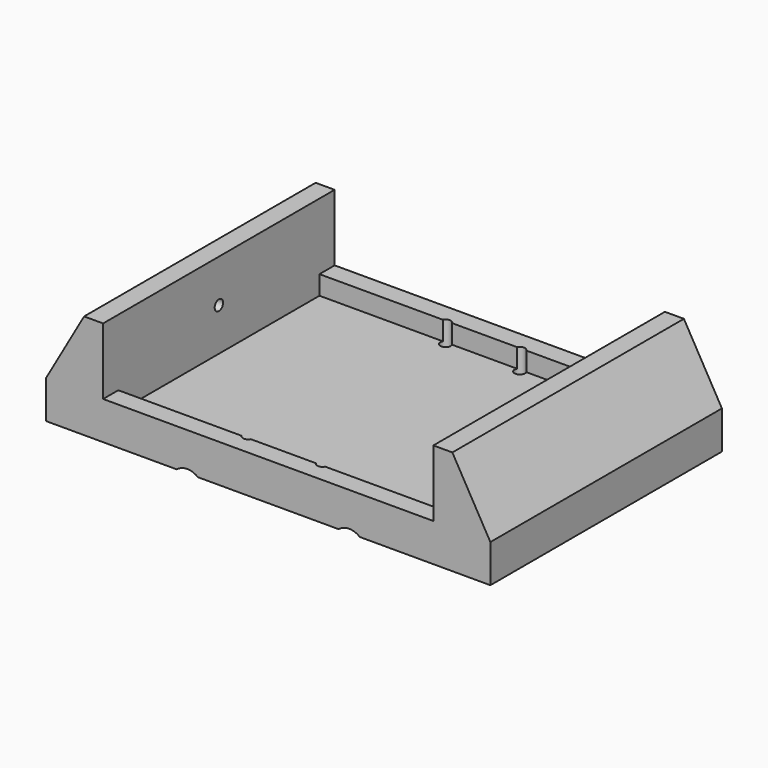
from build123d import *

# Parameters (mm, degrees)
F0_W      = 148.43125
F0_H      = 96.6940154
F0_R      = 1.7272
F1_DEPTH  = 6.35
F2_W      = 148.43125
F2_H      = 96.6940154
F2_W_2    = 110.33125
F2_H_2    = 83.9940154
F3_DEPTH  = 6.35
F4_W      = 19.05
F4_H      = 96.6940154
F5_DEPTH  = 22.225
F6_SIZE2  = 22.225
F6_SIZE   = 12.7
F7_SIZE2  = 12.7
F7_SIZE   = 22.225
F8_R      = 1.7526
F9_DEPTH  = 16.5157714286
F12_DEPTH = 24
F15_DEPTH = 24
F17_R     = 3.96875
F18_DEPTH = 11.4321428571
F19_DEPTH = 6.35
F20_R     = 5.587492
F21_DEPTH = 96.6940154


with BuildPart() as f1:
    # F0 (on Top) → F1 (new body)
    with BuildSketch(Plane.XY):
        with Locations((74.215625, -48.3470077)):
            Rectangle(F0_W, F0_H)
        with Locations((61.8218728, -89.5502654)):
            Circle(F0_R, mode=Mode.SUBTRACT)
        with Locations((86.6093772, -89.5502654)):
            Circle(F0_R, mode=Mode.SUBTRACT)
        with Locations((61.8218728, -7.14375)):
            Circle(F0_R, mode=Mode.SUBTRACT)
        with Locations((86.6093772, -7.14375)):
            Circle(F0_R, mode=Mode.SUBTRACT)
    extrude(amount=F1_DEPTH)

    # F2 (on face) → F3 (join)
    with BuildSketch(Plane.XY.offset(6.35)):
        with Locations((74.215625, -48.3470077)):
            Rectangle(F2_W, F2_H)
        with Locations((74.215625, -48.3470077)):
            Rectangle(F2_W_2, F2_H_2, mode=Mode.SUBTRACT)
    extrude(amount=F3_DEPTH)

    # F4 (on face) → F5 (join)
    with BuildSketch(Plane.XY.offset(12.7)):
        with Locations((9.525, -48.3470077)):
            Rectangle(F4_W, F4_H)
        with Locations((138.90625, -48.3470077)):
            Rectangle(F4_W, F4_H)
    extrude(amount=F5_DEPTH)

    # F6
    f6_edges = [f1.edges().sort_by_distance(p)[0] for p in [
        (0, -48.347008, 34.925),
    ]]
    f6_side = f1.faces().sort_by_distance((9.525, -48.347008, 34.925))[0]
    chamfer(f6_edges, length=F6_SIZE, length2=F6_SIZE2, reference=f6_side)

    # F7
    f7_edges = [f1.edges().sort_by_distance(p)[0] for p in [
        (148.43125, -48.347008, 34.925),
    ]]
    f7_side = f1.faces().sort_by_distance((148.43125, -48.347008, 17.4625))[0]
    chamfer(f7_edges, length=F7_SIZE, length2=F7_SIZE2, reference=f7_side)

    # F8 (on face) → F9 (cut, up to face)
    with BuildSketch(Plane.YZ.offset(19.05)):
        with Locations((-48.3470077, 20.6375)):
            Circle(F8_R)
    extrude(amount=-F9_DEPTH, mode=Mode.SUBTRACT)

    # F11 (on offset) → F12 (cut)
    with BuildSketch(Plane(origin=(0, -3.175, 0), x_dir=(-1, 0, 0), z_dir=(0, 1, 0))):
        with BuildLine():
            Line((-53.3054687, 0), (-41.0507815, 0))
            ThreePointArc((-41.0507815, 0), (-47.1781251, 3.1749959066), (-53.3054687, 0))
        make_face()
        with BuildLine():
            ThreePointArc((-95.1257813, 0), (-101.2531249, 3.1749959066), (-107.3804685, 0))
            Line((-107.3804685, 0), (-95.1257813, 0))
        make_face()
    extrude(amount=-F12_DEPTH, mode=Mode.SUBTRACT)

    # F14 (on offset) → F15 (cut)
    with BuildSketch(Plane.XZ.offset(93.5190154)):
        with BuildLine():
            ThreePointArc((53.3054687, 0), (47.1781251, 3.1749959066), (41.0507815, 0))
            Line((41.0507815, 0), (53.3054687, 0))
        make_face()
        with BuildLine():
            ThreePointArc((107.3804685, 0), (101.2531249, 3.1749959066), (95.1257813, 0))
            Line((95.1257813, 0), (107.3804685, 0))
        make_face()
    extrude(amount=-F15_DEPTH, mode=Mode.SUBTRACT)

    # F17 (on offset) → F18 (cut, up to face)
    with BuildSketch(Plane.YZ.offset(12.7)):
        with Locations((-48.3470077, 20.6375)):
            Circle(F17_R)
    extrude(amount=-F18_DEPTH, mode=Mode.SUBTRACT)

    # F19 (cut, through all): faces of the model
    f19_faces = [f1.faces().sort_by_distance(p)[0] for p in [
        (61.8218728, -90.7276702983, 6.35),
        (86.6093772, -90.7276702983, 6.35),
        (86.6093772, -5.9663451017, 6.35),
        (61.8218728, -5.9663451017, 6.35),
    ]]
    extrude(f19_faces, amount=-F19_DEPTH, mode=Mode.SUBTRACT)

    # F20 (on face) → F21 (cut, through all)
    with BuildSketch(Plane.XZ.offset(96.6940154)):
        with Locations((47.1781251, -4.3250040934)):
            Circle(F20_R)
        with Locations((101.2531249, -4.3250040934)):
            Circle(F20_R)
    extrude(amount=-F21_DEPTH, mode=Mode.SUBTRACT)


solid = f1.part
